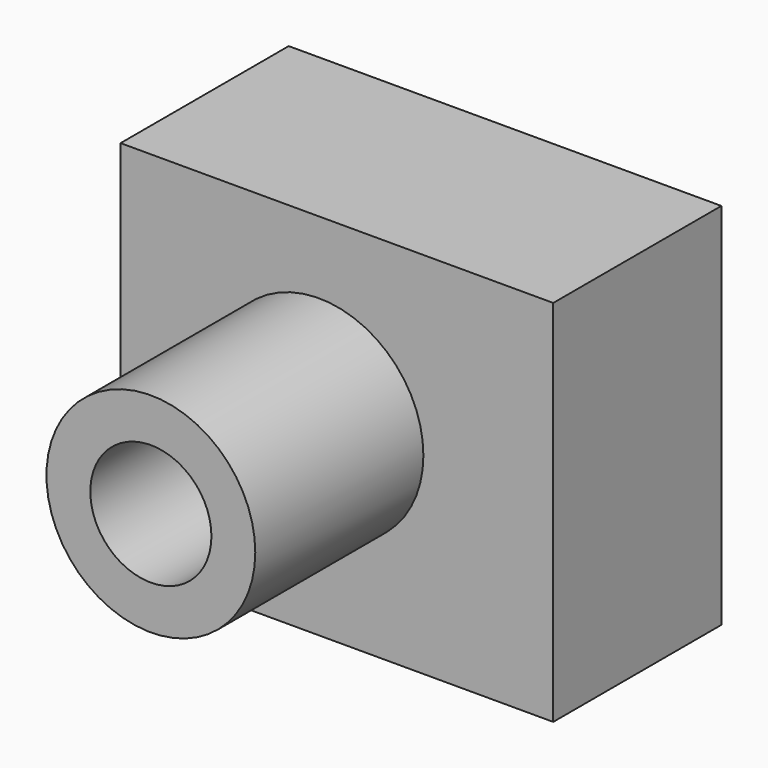
from build123d import *

# Parameters (mm, degrees)
F0_R     = 12.620584
F0_R_2   = 7.319634
F1_DEPTH = 50.8
F2_W     = 52.295694
F2_H     = 44.583887
F3_DEPTH = 25.4


with BuildPart() as f1:
    # F0 (on Front) → F1 (new body)
    with BuildSketch(Plane.XZ):
        Circle(F0_R)
        Circle(F0_R_2, mode=Mode.SUBTRACT)
    extrude(amount=F1_DEPTH)

    # F2 (on Front) → F3 (join)
    with BuildSketch(Plane.XZ):
        with Locations((2.168945, -0.963974)):
            Rectangle(F2_W, F2_H)
    extrude(amount=F3_DEPTH)


solid = f1.part
